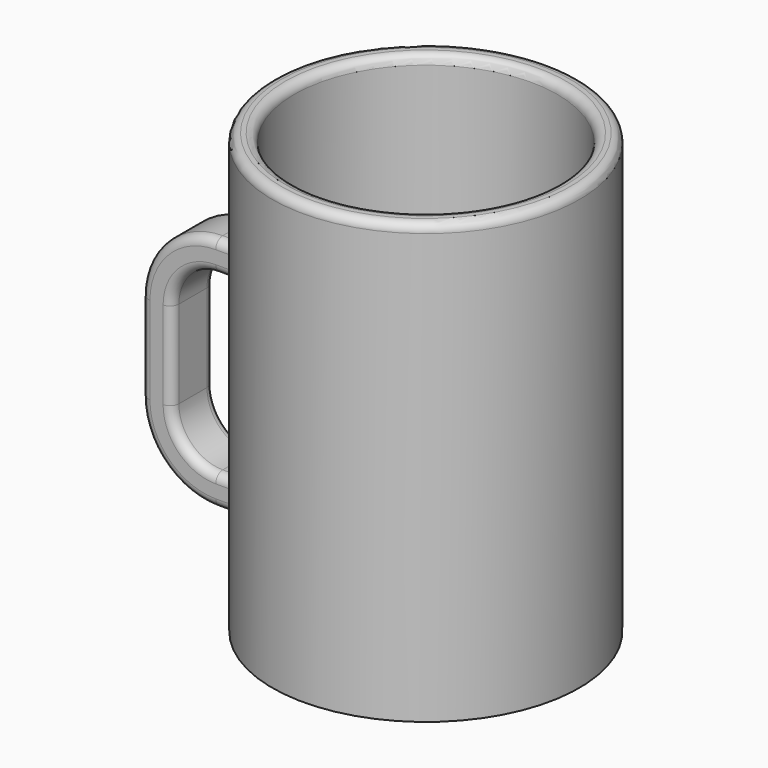
from build123d import *

# Parameters (mm, degrees)
F3_DEPTH = 6
F4_R     = 2


with BuildPart() as f1:
    # F0 (on Front) → F1 (revolve)
    with BuildSketch(Plane.XZ):
        with BuildLine():
            Line((0, 1.375929), (0, 5))
            Line((0, 5), (-28, 5))
            ThreePointArc((-28, 5), (-29.414214, 5.585786), (-30, 7))
            Line((-30, 7), (-30, 98))
            ThreePointArc((-30, 98), (-30.585786, 99.414214), (-32, 100))
            Line((-32, 100), (-33, 100))
            ThreePointArc((-33, 100), (-34.414214, 99.414214), (-35, 98))
            Line((-35, 98), (-35, 0))
            Line((-35, 0), (-32.452703, 0))
            Line((-32.452703, 0), (-31.345069, 1.375929))
            Line((-31.345069, 1.375929), (0, 1.375929))
        make_face()
    revolve(axis=Axis((0, 0, 64.654013), (0, 0, -1)))

    # F2 (on Front) → F3 (join, symmetric)
    with BuildSketch(Plane.XZ):
        with BuildLine():
            Line((-43.091623, 60), (-33.091623, 60))
            Line((-33.091623, 60), (-33.091623, 67))
            Line((-33.091623, 67), (-43.091623, 67))
            ThreePointArc((-43.091623, 67), (-55.112439, 62.020815), (-60.091623, 50))
            Line((-60.091623, 50), (-60.091623, 30))
            ThreePointArc((-60.091623, 30), (-55.112439, 17.979185), (-43.091623, 13))
            Line((-43.091623, 13), (-33.091623, 13))
            Line((-33.091623, 13), (-33.091623, 20))
            Line((-33.091623, 20), (-43.091623, 20))
            ThreePointArc((-43.091623, 20), (-50.162691, 22.928932), (-53.091623, 30))
            Line((-53.091623, 30), (-53.091623, 50))
            ThreePointArc((-53.091623, 50), (-50.162691, 57.071068), (-43.091623, 60))
        make_face()
    extrude(amount=F3_DEPTH, both=True)

    # F4
    f4_edges = [f1.edges().sort_by_distance(p)[0] for p in [
        (-38.786751, -6, 67),
        (-53.091623, -6, 40),
        (-55.112439, 6, 62.020815),
        (-53.091623, 6, 40),
    ]]
    fillet(f4_edges, radius=F4_R)


solid = f1.part
